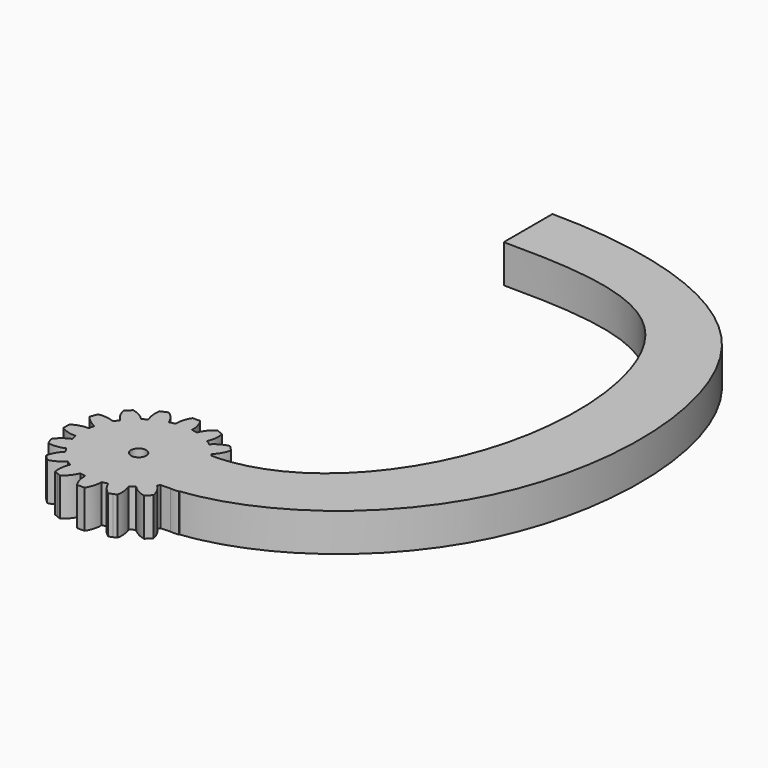
from build123d import *

# Parameters (mm, degrees)
F1_DEPTH = 5
F2_R     = 1
F3_DEPTH = 5.001
F5_DEPTH = 5


with BuildPart() as f1:
    # F0 (on Top) → F1 (new body)
    with BuildSketch(Plane.XY):
        with BuildLine():
            ThreePointArc((7.4206173165, -1.0883191822), (7.4801280027, -0.5456052265), (7.5, 0))
            ThreePointArc((7.5, 0), (7.4801280027, 0.5456052265), (7.4206173165, 1.0883191822))
            ThreePointArc((7.4206173165, 1.0883191822), (7.355889603, 1.4631774151), (7.2722381774, 1.8342714877))
            ThreePointArc((7.2722381774, 1.8342714877), (6.9290964938, 2.8701257427), (6.4392747372, 3.8452231222))
            ThreePointArc((6.4392747372, 3.8452231222), (6.2360220923, 4.1667767476), (6.0167266989, 4.4776109513))
            ThreePointArc((6.0167266989, 4.4776109513), (5.3033008589, 5.3033008589), (4.4776109513, 6.0167266989))
            ThreePointArc((4.4776109513, 6.0167266989), (4.1667767476, 6.2360220923), (3.8452231222, 6.4392747372))
            ThreePointArc((3.8452231222, 6.4392747372), (2.8701257427, 6.9290964938), (1.8342714877, 7.2722381774))
            ThreePointArc((1.8342714877, 7.2722381774), (1.4631774151, 7.355889603), (1.0883191822, 7.4206173165))
            ThreePointArc((1.0883191822, 7.4206173165), (0, 7.5), (-1.0883191822, 7.4206173165))
            ThreePointArc((-1.0883191822, 7.4206173165), (-1.4631774151, 7.355889603), (-1.8342714877, 7.2722381774))
            ThreePointArc((-1.8342714877, 7.2722381774), (-2.8701257427, 6.9290964938), (-3.8452231222, 6.4392747372))
            ThreePointArc((-3.8452231222, 6.4392747372), (-4.1667767476, 6.2360220923), (-4.4776109513, 6.0167266989))
            ThreePointArc((-4.4776109513, 6.0167266989), (-5.3033008589, 5.3033008589), (-6.0167266989, 4.4776109513))
            ThreePointArc((-6.0167266989, 4.4776109513), (-6.2360220923, 4.1667767476), (-6.4392747372, 3.8452231222))
            ThreePointArc((-6.4392747372, 3.8452231222), (-6.9290964938, 2.8701257427), (-7.2722381774, 1.8342714877))
            ThreePointArc((-7.2722381774, 1.8342714877), (-7.355889603, 1.4631774151), (-7.4206173165, 1.0883191822))
            ThreePointArc((-7.4206173165, 1.0883191822), (-7.5, 0), (-7.4206173165, -1.0883191822))
            ThreePointArc((-7.4206173165, -1.0883191822), (-7.355889603, -1.4631774151), (-7.2722381774, -1.8342714877))
            ThreePointArc((-7.2722381774, -1.8342714877), (-6.9290964938, -2.8701257427), (-6.4392747372, -3.8452231222))
            ThreePointArc((-6.4392747372, -3.8452231222), (-6.2360220923, -4.1667767476), (-6.0167266989, -4.4776109513))
            ThreePointArc((-6.0167266989, -4.4776109513), (-5.3033008589, -5.3033008589), (-4.4776109513, -6.0167266989))
            ThreePointArc((-4.4776109513, -6.0167266989), (-4.1667767476, -6.2360220923), (-3.8452231222, -6.4392747372))
            ThreePointArc((-3.8452231222, -6.4392747372), (-2.8701257427, -6.9290964938), (-1.8342714877, -7.2722381774))
            ThreePointArc((-1.8342714877, -7.2722381774), (-1.4631774151, -7.355889603), (-1.0883191822, -7.4206173165))
            ThreePointArc((-1.0883191822, -7.4206173165), (0, -7.5), (1.0883191822, -7.4206173165))
            ThreePointArc((1.0883191822, -7.4206173165), (1.4631774151, -7.355889603), (1.8342714877, -7.2722381774))
            ThreePointArc((1.8342714877, -7.2722381774), (2.8701257427, -6.9290964938), (3.8452231222, -6.4392747372))
            ThreePointArc((3.8452231222, -6.4392747372), (4.1667767476, -6.2360220923), (4.4776109513, -6.0167266989))
            ThreePointArc((4.4776109513, -6.0167266989), (5.3033008589, -5.3033008589), (6.0167266989, -4.4776109513))
            ThreePointArc((6.0167266989, -4.4776109513), (6.2360220923, -4.1667767476), (6.4392747372, -3.8452231222))
            ThreePointArc((6.4392747372, -3.8452231222), (6.9290964938, -2.8701257427), (7.2722381774, -1.8342714877))
            ThreePointArc((7.2722381774, -1.8342714877), (7.355889603, -1.4631774151), (7.4206173165, -1.0883191822))
        make_face()
        with BuildLine():
            ThreePointArc((7.4206173165, 1.0883191822), (7.4801280027, 0.5456052265), (7.5, 0))
            ThreePointArc((7.5, 0), (7.4801280027, -0.5456052265), (7.4206173165, -1.0883191822))
            ThreePointArc((7.4206173165, -1.0883191822), (8.5043518229, -0.9498278009), (9.5, -0.5))
            Line((9.5, -0.5), (9.5, 0))
            Line((9.5, 0), (9.5, 0.5))
            ThreePointArc((9.5, 0.5), (8.5043518229, 0.9498278009), (7.4206173165, 1.0883191822))
        make_face()
        with BuildLine():
            ThreePointArc((6.4392747372, 3.8452231222), (6.9290964938, 2.8701257427), (7.2722381774, 1.8342714877))
            ThreePointArc((7.2722381774, 1.8342714877), (8.2204799494, 2.376948081), (8.968197275, 3.1735528412))
            Line((8.968197275, 3.1735528412), (8.7768555589, 3.6354926075))
            Line((8.7768555589, 3.6354926075), (8.5855138427, 4.0974323737))
            ThreePointArc((8.5855138427, 4.0974323737), (7.4935132234, 4.1320010103), (6.4392747372, 3.8452231222))
        make_face()
        with BuildLine():
            ThreePointArc((8.968197275, -3.1735528412), (8.2204799494, -2.376948081), (7.2722381774, -1.8342714877))
            ThreePointArc((7.2722381774, -1.8342714877), (6.9290964938, -2.8701257427), (6.4392747372, -3.8452231222))
            ThreePointArc((6.4392747372, -3.8452231222), (7.4935132234, -4.1320010103), (8.5855138427, -4.0974323737))
            Line((8.5855138427, -4.0974323737), (8.7768555589, -3.6354926075))
            Line((8.7768555589, -3.6354926075), (8.968197275, -3.1735528412))
        make_face()
        with BuildLine():
            ThreePointArc((4.4776109513, 6.0167266989), (5.3033008589, 5.3033008589), (6.0167266989, 4.4776109513))
            ThreePointArc((6.0167266989, 4.4776109513), (6.6851145225, 5.3418551646), (7.0710678119, 6.3639610307))
            Line((7.0710678119, 6.3639610307), (6.7175144213, 6.7175144213))
            Line((6.7175144213, 6.7175144213), (6.3639610307, 7.0710678119))
            ThreePointArc((6.3639610307, 7.0710678119), (5.3418551646, 6.6851145225), (4.4776109513, 6.0167266989))
        make_face()
        with BuildLine():
            ThreePointArc((7.0710678119, -6.3639610307), (6.6851145225, -5.3418551646), (6.0167266989, -4.4776109513))
            ThreePointArc((6.0167266989, -4.4776109513), (5.3033008589, -5.3033008589), (4.4776109513, -6.0167266989))
            ThreePointArc((4.4776109513, -6.0167266989), (5.3418551646, -6.6851145225), (6.3639610307, -7.0710678119))
            Line((6.3639610307, -7.0710678119), (6.7175144213, -6.7175144213))
            Line((6.7175144213, -6.7175144213), (7.0710678119, -6.3639610307))
        make_face()
        with BuildLine():
            ThreePointArc((1.8342714877, 7.2722381774), (2.8701257427, 6.9290964938), (3.8452231222, 6.4392747372))
            ThreePointArc((3.8452231222, 6.4392747372), (4.1320010103, 7.4935132234), (4.0974323737, 8.5855138427))
            Line((4.0974323737, 8.5855138427), (3.6354926075, 8.7768555589))
            Line((3.6354926075, 8.7768555589), (3.1735528412, 8.968197275))
            ThreePointArc((3.1735528412, 8.968197275), (2.376948081, 8.2204799494), (1.8342714877, 7.2722381774))
        make_face()
        with BuildLine():
            ThreePointArc((4.0974323737, -8.5855138427), (4.1320010103, -7.4935132234), (3.8452231222, -6.4392747372))
            ThreePointArc((3.8452231222, -6.4392747372), (2.8701257427, -6.9290964938), (1.8342714877, -7.2722381774))
            ThreePointArc((1.8342714877, -7.2722381774), (2.376948081, -8.2204799494), (3.1735528412, -8.968197275))
            Line((3.1735528412, -8.968197275), (3.6354926075, -8.7768555589))
            Line((3.6354926075, -8.7768555589), (4.0974323737, -8.5855138427))
        make_face()
        with BuildLine():
            ThreePointArc((-1.0883191822, 7.4206173165), (0, 7.5), (1.0883191822, 7.4206173165))
            ThreePointArc((1.0883191822, 7.4206173165), (0.9498278009, 8.5043518229), (0.5, 9.5))
            Line((0.5, 9.5), (0, 9.5))
            Line((0, 9.5), (-0.5, 9.5))
            ThreePointArc((-0.5, 9.5), (-0.9498278009, 8.5043518229), (-1.0883191822, 7.4206173165))
        make_face()
        with BuildLine():
            ThreePointArc((0.5, -9.5), (0.9498278009, -8.5043518229), (1.0883191822, -7.4206173165))
            ThreePointArc((1.0883191822, -7.4206173165), (0, -7.5), (-1.0883191822, -7.4206173165))
            ThreePointArc((-1.0883191822, -7.4206173165), (-0.9498278009, -8.5043518229), (-0.5, -9.5))
            Line((-0.5, -9.5), (0, -9.5))
            Line((0, -9.5), (0.5, -9.5))
        make_face()
        with BuildLine():
            ThreePointArc((-3.8452231222, 6.4392747372), (-2.8701257427, 6.9290964938), (-1.8342714877, 7.2722381774))
            ThreePointArc((-1.8342714877, 7.2722381774), (-2.376948081, 8.2204799494), (-3.1735528412, 8.968197275))
            Line((-3.1735528412, 8.968197275), (-3.6354926075, 8.7768555589))
            Line((-3.6354926075, 8.7768555589), (-4.0974323737, 8.5855138427))
            ThreePointArc((-4.0974323737, 8.5855138427), (-4.1320010103, 7.4935132234), (-3.8452231222, 6.4392747372))
        make_face()
        with BuildLine():
            ThreePointArc((-3.1735528412, -8.968197275), (-2.376948081, -8.2204799494), (-1.8342714877, -7.2722381774))
            ThreePointArc((-1.8342714877, -7.2722381774), (-2.8701257427, -6.9290964938), (-3.8452231222, -6.4392747372))
            ThreePointArc((-3.8452231222, -6.4392747372), (-4.1320010103, -7.4935132234), (-4.0974323737, -8.5855138427))
            Line((-4.0974323737, -8.5855138427), (-3.6354926075, -8.7768555589))
            Line((-3.6354926075, -8.7768555589), (-3.1735528412, -8.968197275))
        make_face()
        with BuildLine():
            ThreePointArc((-6.0167266989, 4.4776109513), (-5.3033008589, 5.3033008589), (-4.4776109513, 6.0167266989))
            ThreePointArc((-4.4776109513, 6.0167266989), (-5.3418551646, 6.6851145225), (-6.3639610307, 7.0710678119))
            Line((-6.3639610307, 7.0710678119), (-6.7175144213, 6.7175144213))
            Line((-6.7175144213, 6.7175144213), (-7.0710678119, 6.3639610307))
            ThreePointArc((-7.0710678119, 6.3639610307), (-6.6851145225, 5.3418551646), (-6.0167266989, 4.4776109513))
        make_face()
        with BuildLine():
            ThreePointArc((-6.3639610307, -7.0710678119), (-5.3418551646, -6.6851145225), (-4.4776109513, -6.0167266989))
            ThreePointArc((-4.4776109513, -6.0167266989), (-5.3033008589, -5.3033008589), (-6.0167266989, -4.4776109513))
            ThreePointArc((-6.0167266989, -4.4776109513), (-6.6851145225, -5.3418551646), (-7.0710678119, -6.3639610307))
            Line((-7.0710678119, -6.3639610307), (-6.7175144213, -6.7175144213))
            Line((-6.7175144213, -6.7175144213), (-6.3639610307, -7.0710678119))
        make_face()
        with BuildLine():
            ThreePointArc((-7.2722381774, 1.8342714877), (-6.9290964938, 2.8701257427), (-6.4392747372, 3.8452231222))
            ThreePointArc((-6.4392747372, 3.8452231222), (-7.4935132234, 4.1320010103), (-8.5855138427, 4.0974323737))
            Line((-8.5855138427, 4.0974323737), (-8.7768555589, 3.6354926075))
            Line((-8.7768555589, 3.6354926075), (-8.968197275, 3.1735528412))
            ThreePointArc((-8.968197275, 3.1735528412), (-8.2204799494, 2.376948081), (-7.2722381774, 1.8342714877))
        make_face()
        with BuildLine():
            ThreePointArc((-8.5855138427, -4.0974323737), (-7.4935132234, -4.1320010103), (-6.4392747372, -3.8452231222))
            ThreePointArc((-6.4392747372, -3.8452231222), (-6.9290964938, -2.8701257427), (-7.2722381774, -1.8342714877))
            ThreePointArc((-7.2722381774, -1.8342714877), (-8.2204799494, -2.376948081), (-8.968197275, -3.1735528412))
            Line((-8.968197275, -3.1735528412), (-8.7768555589, -3.6354926075))
            Line((-8.7768555589, -3.6354926075), (-8.5855138427, -4.0974323737))
        make_face()
        with BuildLine():
            ThreePointArc((-7.4206173165, -1.0883191822), (-7.5, 0), (-7.4206173165, 1.0883191822))
            ThreePointArc((-7.4206173165, 1.0883191822), (-8.5043518229, 0.9498278009), (-9.5, 0.5))
            Line((-9.5, 0.5), (-9.5, 0))
            Line((-9.5, 0), (-9.5, -0.5))
            ThreePointArc((-9.5, -0.5), (-8.5043518229, -0.9498278009), (-7.4206173165, -1.0883191822))
        make_face()
    extrude(amount=F1_DEPTH)

    # F2 (on face) → F3 (cut, through all)
    with BuildSketch(Plane.XY.offset(5)):
        Circle(F2_R)
    extrude(amount=-F3_DEPTH, mode=Mode.SUBTRACT)

    # F4 (on Top) → F5 (join, through all)
    with BuildSketch(Plane.XY):
        with BuildLine():
            add(Edge.make_bspline(
                [(0, 68), (10, 68), (39.3456439437, 63.064218154), (40.9770665239, 11.1452711637), (16.2360220923, -4.1667767476), (6.2360220923, -4.1667767476)],
                knots=[0, 0, 0, 0, 0.3204025883, 0.6794477725, 1, 1, 1, 1], degree=3))
            Line((0, 68), (0, 60))
            add(Edge.make_bspline(
                [(0, 60), (10, 60), (28.0903463875, 58.7730295468), (32.3932406636, 21.6529907107), (16.2360220923, 4.1667767476), (6.2360220923, 4.1667767476)],
                knots=[0, 0, 0, 0, 0.3129092193, 0.6621110471, 1, 1, 1, 1], degree=3))
            Line((6.2360220923, 4.1667767476), (6.2360220923, -4.1667767476))
        make_face()
    extrude(amount=F5_DEPTH)


solid = f1.part
